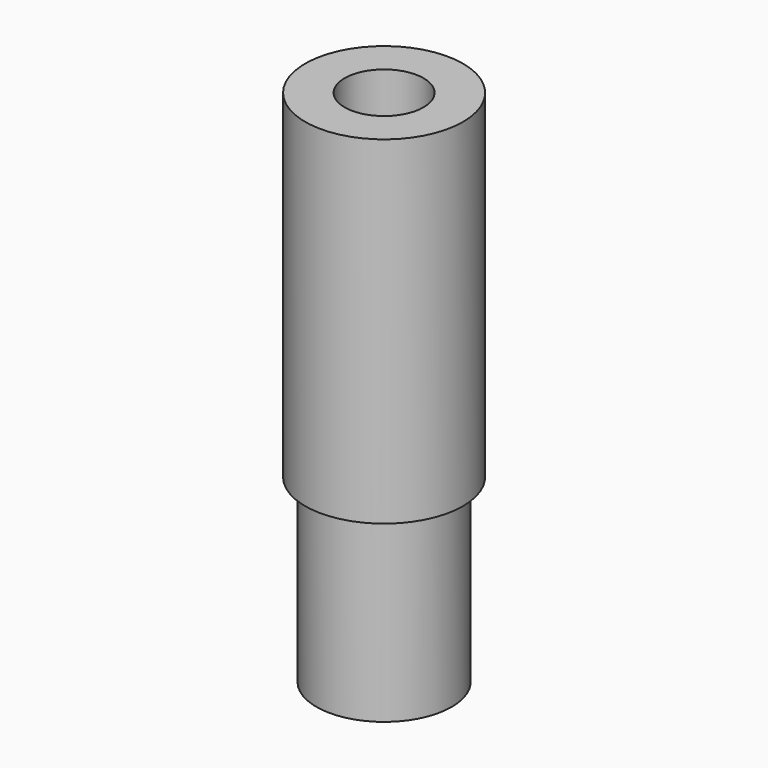
from build123d import *

# Parameters (mm, degrees)
F0_R     = 3
F1_DEPTH = 8
F2_R     = 3.5
F2_R_2   = 3
F2_R_3   = 1.75
F3_DEPTH = 15


with BuildPart() as f1:
    # F0 (on Top) → F1 (new body)
    with BuildSketch(Plane.XY):
        Circle(F0_R)
    extrude(amount=F1_DEPTH)

    # F2 (on face) → F3 (join)
    with BuildSketch(Plane.XY.offset(8)):
        Circle(F2_R)
        Circle(F2_R_2, mode=Mode.SUBTRACT)
        Circle(F2_R_2)
        Circle(F2_R_3, mode=Mode.SUBTRACT)
    extrude(amount=F3_DEPTH)


solid = f1.part
